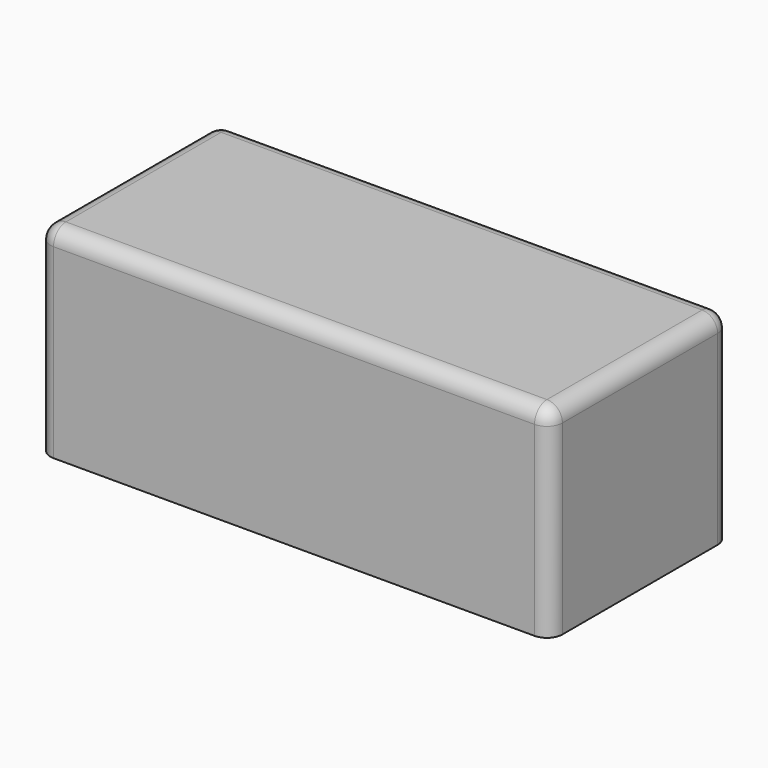
from build123d import *

# Parameters (mm, degrees)
SKETCH_W  = 1.65
SKETCH_H  = 0.725
PAD_DEPTH = 0.65
FILLET_R  = 0.05


with BuildPart() as part:
    # Sketch → Pad (new body)
    with BuildSketch(Plane.XY):
        Rectangle(SKETCH_W, SKETCH_H)
    extrude(amount=PAD_DEPTH)

    # Fillet
    fillet_edges = [part.edges().sort_by_distance(p)[0] for p in [
        (-0.825, 0.3625, 0.325),
        (0.825, 0.3625, 0.325),
        (0, 0.3625, 0.65),
        (0.825, -0.3625, 0.325),
        (0.825, 0, 0.65),
        (-0.825, -0.3625, 0.325),
        (0, -0.3625, 0.65),
        (-0.825, 0, 0.65),
    ]]
    fillet(fillet_edges, radius=FILLET_R)


solid = part.part
